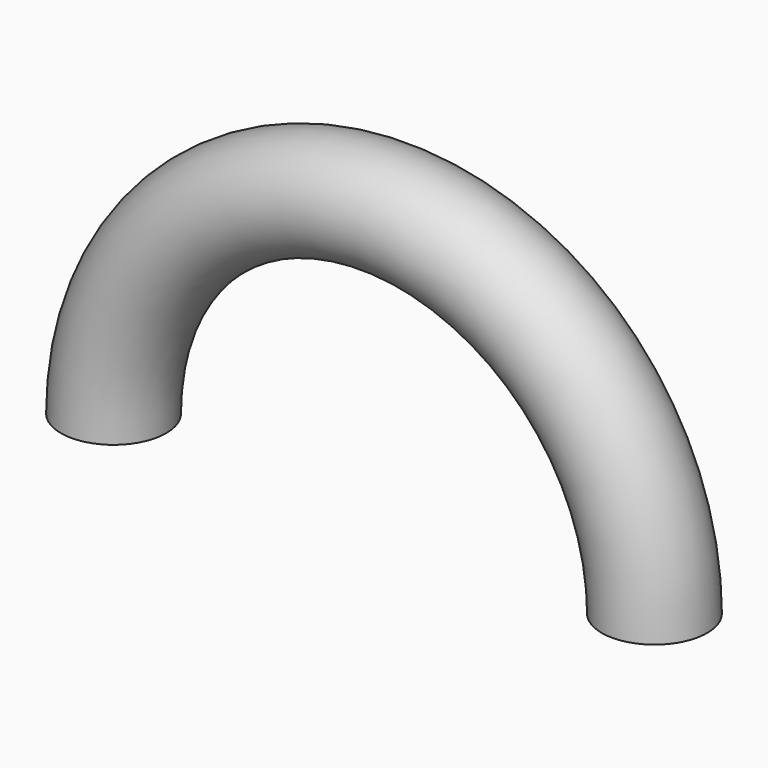
from build123d import *

# Parameters (mm, degrees)
F0_R     = 9.571484
F1_ANGLE = -180


with BuildPart() as f1:
    # F0 (on Top) → F1 (revolve)
    with BuildSketch(Plane.XY):
        with Locations((-49.143445, 0)):
            Circle(F0_R)
    revolve(axis=Axis((0, -0.172131, 0), (0, -1, 0)), revolution_arc=F1_ANGLE)


solid = f1.part
